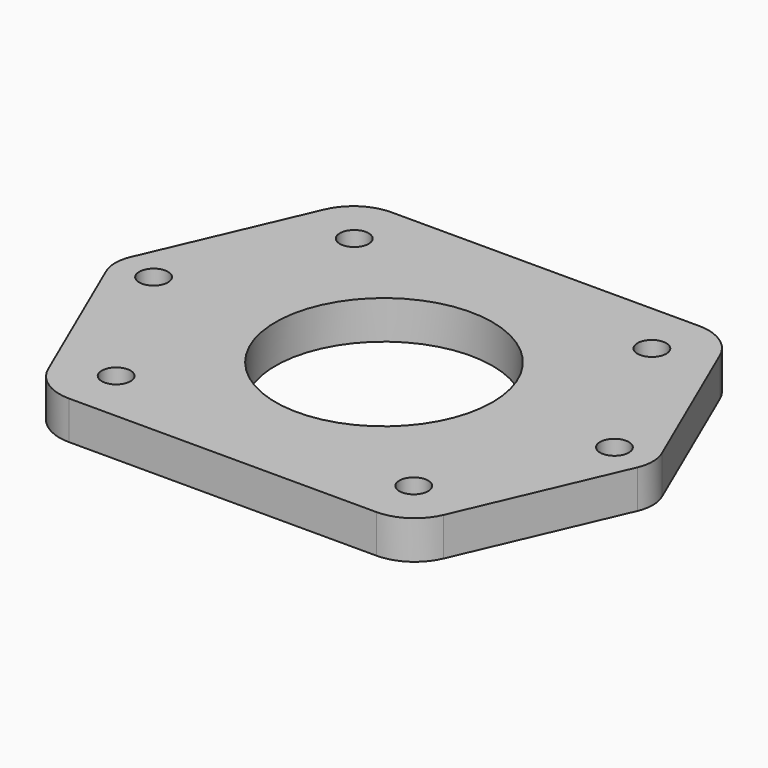
from build123d import *

# Parameters (mm, degrees)
F0_R     = 1.5
F0_R_2   = 11.3
F1_DEPTH = 4


with BuildPart() as f1:
    # F0 (on Top) → F1 (new body)
    with BuildSketch(Plane.XY):
        with BuildLine():
            Line((-20.590143, 17.982571), (-27.672114, 1.586057))
            ThreePointArc((-27.672114, 1.586057), (-28, 0), (-27.672114, -1.586057))
            Line((-27.672114, -1.586057), (-20.590143, -17.982571))
            ThreePointArc((-20.590143, -17.982571), (-18.746556, -20.178089), (-16, -21))
            Line((-16, -21), (16, -21))
            ThreePointArc((16, -21), (18.746556, -20.178089), (20.590143, -17.982571))
            Line((20.590143, -17.982571), (27.672114, -1.586057))
            ThreePointArc((27.672114, -1.586057), (28, 0), (27.672114, 1.586057))
            Line((27.672114, 1.586057), (20.590143, 17.982571))
            ThreePointArc((20.590143, 17.982571), (18.746556, 20.178089), (16, 21))
            Line((16, 21), (-16, 21))
            ThreePointArc((-16, 21), (-18.746556, 20.178089), (-20.590143, 17.982571))
        make_face()
        with Locations((-15.5, -15.5)):
            Circle(F0_R, mode=Mode.SUBTRACT)
        with Locations((15.5, -15.5)):
            Circle(F0_R, mode=Mode.SUBTRACT)
        with Locations((-24, 0)):
            Circle(F0_R, mode=Mode.SUBTRACT)
        with Locations((-15.5, 15.5)):
            Circle(F0_R, mode=Mode.SUBTRACT)
        Circle(F0_R_2, mode=Mode.SUBTRACT)
        with Locations((24, 0)):
            Circle(F0_R, mode=Mode.SUBTRACT)
        with Locations((15.5, 15.5)):
            Circle(F0_R, mode=Mode.SUBTRACT)
    extrude(amount=F1_DEPTH)


solid = f1.part
